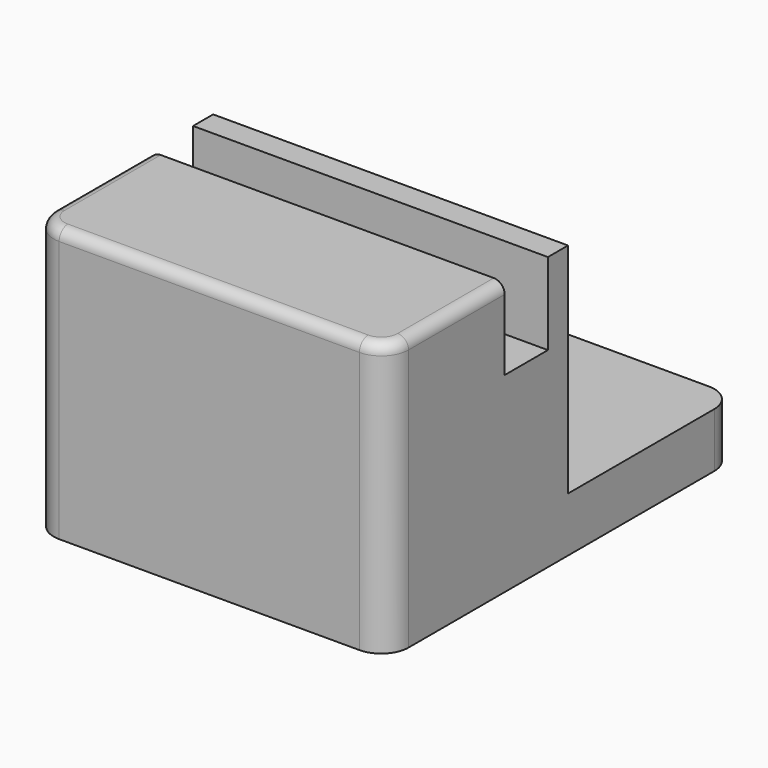
from build123d import *

# Parameters (mm, degrees)
F0_W     = 65
F0_H     = 4.5996872587
F0_H_2   = 9.9056614563
F1_DEPTH = 10
F2_DEPTH = 50
F3_DEPTH = 35
F4_R     = 2


with BuildPart() as f1:
    # F0 (on Top) → F1 (new body)
    with BuildSketch(Plane.XY):
        with BuildLine():
            ThreePointArc((32.5, 35), (31.0355339059, 38.5355339059), (27.5, 40))
            Line((27.5, 40), (-27.5, 40))
            ThreePointArc((-27.5, 40), (-31.0355339059, 38.5355339059), (-32.5, 35))
            Line((-32.5, 35), (-32.5, 1.505348715))
            Line((-32.5, 1.505348715), (32.5, 1.505348715))
            Line((32.5, 1.505348715), (32.5, 35))
        make_face()
        with Locations((0, -0.7944949144)):
            Rectangle(F0_W, F0_H)
        with Locations((0, -8.0471692719)):
            Rectangle(F0_W, F0_H_2)
        with BuildLine():
            Line((32.5, -35), (32.5, -13))
            Line((32.5, -13), (-32.5, -13))
            Line((-32.5, -13), (-32.5, -35))
            ThreePointArc((-32.5, -35), (-31.0355339059, -38.5355339059), (-27.5, -40))
            Line((-27.5, -40), (27.5, -40))
            ThreePointArc((27.5, -40), (31.0355339059, -38.5355339059), (32.5, -35))
        make_face()
    extrude(amount=F1_DEPTH)

    # F0 (on Top) → F2 (join)
    with BuildSketch(Plane.XY):
        with Locations((0, -0.7944949144)):
            Rectangle(F0_W, F0_H)
        with BuildLine():
            Line((32.5, -35), (32.5, -13))
            Line((32.5, -13), (-32.5, -13))
            Line((-32.5, -13), (-32.5, -35))
            ThreePointArc((-32.5, -35), (-31.0355339059, -38.5355339059), (-27.5, -40))
            Line((-27.5, -40), (27.5, -40))
            ThreePointArc((27.5, -40), (31.0355339059, -38.5355339059), (32.5, -35))
        make_face()
    extrude(amount=F2_DEPTH)

    # F0 (on Top) → F3 (join)
    with BuildSketch(Plane.XY):
        with Locations((0, -8.0471692719)):
            Rectangle(F0_W, F0_H_2)
    extrude(amount=F3_DEPTH)

    # F4
    f4_edges = [f1.edges().sort_by_distance(p)[0] for p in [
        (-32.5, -24, 50),
        (32.5, -24, 50),
    ]]
    fillet(f4_edges, radius=F4_R)


solid = f1.part
